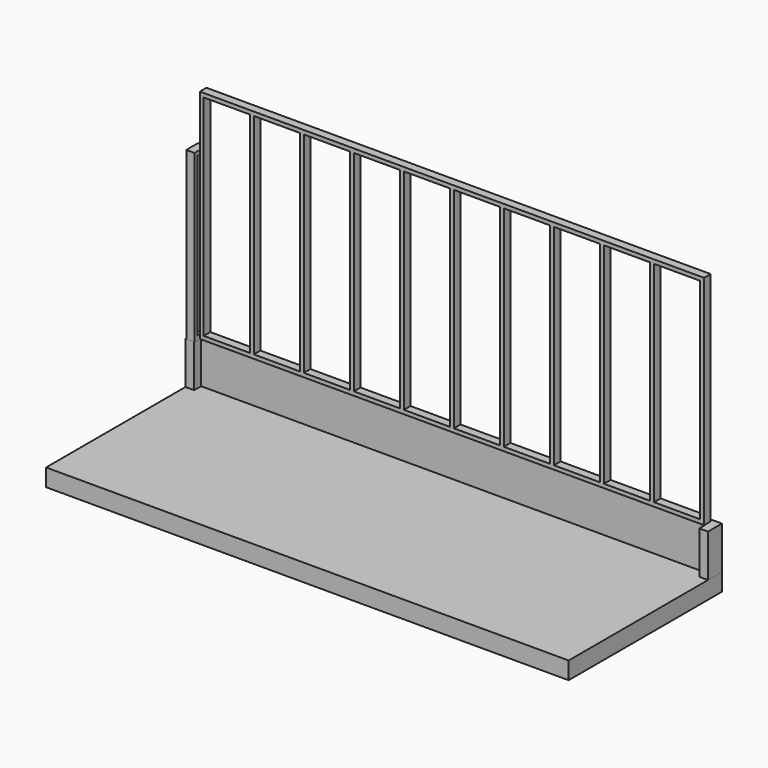
from build123d import *

# Parameters (mm, degrees)
F4_DEPTH = 200
F5_DEPTH = 490
F6_START = 10
F2_W     = 170
F2_H     = 1910
F2_W_2   = 80
F2_H_2   = 1820
F6_DEPTH = 95
F7_START = 30
F3_W     = 5790
F3_H     = 2500
F3_W_2   = 529.5
F3_H_2   = 2410
F7_DEPTH = 95


with BuildPart() as f4:
    # F0 (on Top) → F4 (new body, through all)
    with BuildSketch(Plane.XY):
        Polygon((100, -200), (0, -200), (0, -2200), (6000, -2200), (6000, -200), (5900, -200), (5900, -100), (100, -100), align=None)
        Polygon((6000, 0), (0, 0), (0, -200), (100, -200), (100, -100), (5900, -100), (5900, -200), (6000, -200), align=None)
    extrude(amount=-F4_DEPTH)


with BuildPart() as f5:
    # F0 (on Top) → F5 (new body, through all)
    with BuildSketch(Plane.XY):
        Polygon((6000, 0), (0, 0), (0, -200), (100, -200), (100, -100), (5900, -100), (5900, -200), (6000, -200), align=None)
    extrude(amount=F5_DEPTH)


with BuildPart() as f6:
    # F2 (on Right) → F6 (new body)
    with BuildSketch(Plane.YZ.offset(F6_START)):
        with Locations((-115, 1445)):
            Rectangle(F2_W, F2_H)
        with Locations((-115, 1445)):
            Rectangle(F2_W_2, F2_H_2, mode=Mode.SUBTRACT)
    extrude(amount=F6_DEPTH)


with BuildPart() as f7:
    # F3 (on Front) → F7 (new body)
    with BuildSketch(Plane.XZ.offset(F7_START)):
        with Locations((3000, 1740)):
            Rectangle(F3_W, F3_H)
        with Locations((414.75, 1740)):
            Rectangle(F3_W_2, F3_H_2, mode=Mode.SUBTRACT)
        with Locations((989.25, 1740)):
            Rectangle(F3_W_2, F3_H_2, mode=Mode.SUBTRACT)
        with Locations((1563.75, 1740)):
            Rectangle(F3_W_2, F3_H_2, mode=Mode.SUBTRACT)
        with Locations((2138.25, 1740)):
            Rectangle(F3_W_2, F3_H_2, mode=Mode.SUBTRACT)
        with Locations((2712.75, 1740)):
            Rectangle(F3_W_2, F3_H_2, mode=Mode.SUBTRACT)
        with Locations((3287.25, 1740)):
            Rectangle(F3_W_2, F3_H_2, mode=Mode.SUBTRACT)
        with Locations((3861.75, 1740)):
            Rectangle(F3_W_2, F3_H_2, mode=Mode.SUBTRACT)
        with Locations((4436.25, 1740)):
            Rectangle(F3_W_2, F3_H_2, mode=Mode.SUBTRACT)
        with Locations((5010.75, 1740)):
            Rectangle(F3_W_2, F3_H_2, mode=Mode.SUBTRACT)
        with Locations((5585.25, 1740)):
            Rectangle(F3_W_2, F3_H_2, mode=Mode.SUBTRACT)
    extrude(amount=F7_DEPTH)


solid = Compound([f4.part, f5.part, f6.part, f7.part])
